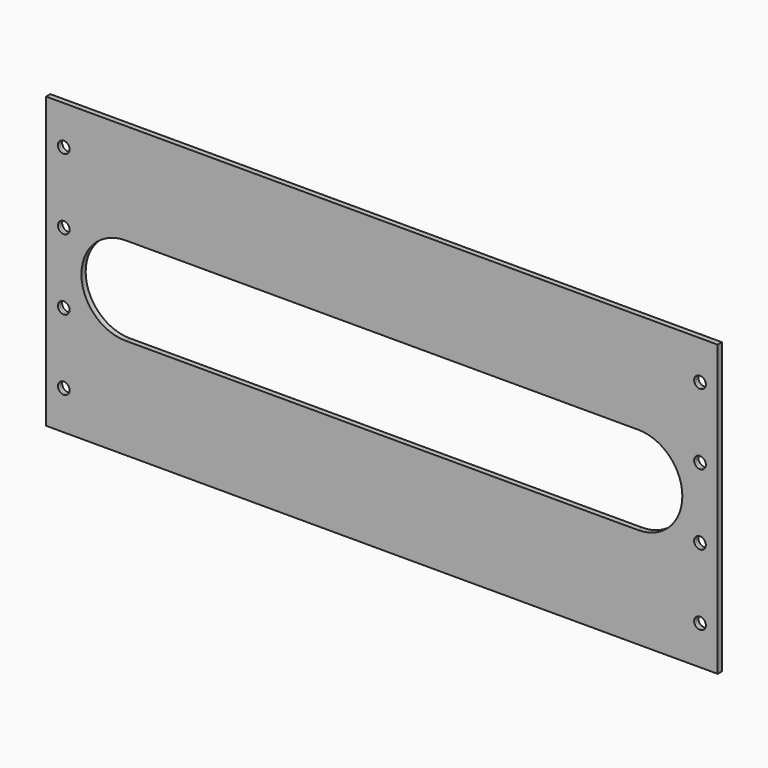
from build123d import *

# Parameters (mm, degrees)
SKETCH_W       = 190
SKETCH_H       = 82
SKETCH_R       = 1.65
PAD_DEPTH      = 0.75
PAD_DEPTH_BACK = 0.75
POCKET_DEPTH   = 2.251


with BuildPart() as part:
    # Sketch → Pad (new body, two sides)
    with BuildSketch(Plane.XZ) as pad_sk:
        Rectangle(SKETCH_W, SKETCH_H)
        with Locations((90, 30)):
            Circle(SKETCH_R, mode=Mode.SUBTRACT)
        with Locations((90, 10)):
            Circle(SKETCH_R, mode=Mode.SUBTRACT)
        with Locations((90, -30)):
            Circle(SKETCH_R, mode=Mode.SUBTRACT)
        with Locations((90, -10)):
            Circle(SKETCH_R, mode=Mode.SUBTRACT)
        with Locations((-90, 30)):
            Circle(SKETCH_R, mode=Mode.SUBTRACT)
        with Locations((-90, 10)):
            Circle(SKETCH_R, mode=Mode.SUBTRACT)
        with Locations((-90, -30)):
            Circle(SKETCH_R, mode=Mode.SUBTRACT)
        with Locations((-90, -10)):
            Circle(SKETCH_R, mode=Mode.SUBTRACT)
    extrude(amount=PAD_DEPTH)
    extrude(pad_sk.sketch, amount=-PAD_DEPTH_BACK)

    # Sketch001 → Pocket (cut, through all)
    with BuildSketch(Plane.XZ.offset(1.5)):
        with BuildLine():
            ThreePointArc((-72.5, 12.5), (-85, 0), (-72.5, -12.5))
            Line((-72.5, -12.5), (72.5, -12.5))
            ThreePointArc((72.5, -12.5), (85, 0), (72.5, 12.5))
            Line((-72.5, 12.5), (72.5, 12.5))
        make_face()
    extrude(amount=-POCKET_DEPTH, mode=Mode.SUBTRACT)


solid = part.part
